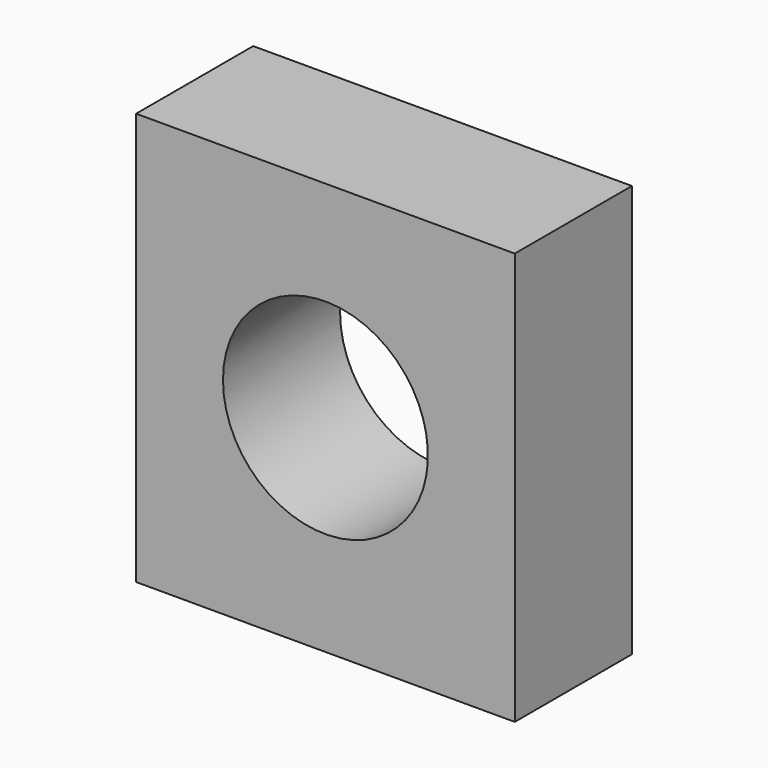
from build123d import *

# Parameters (mm, degrees)
F0_W     = 65.701642
F0_H     = 71.541786
F1_DEPTH = 25.4
F3_D     = 35.56


with BuildPart() as f1:
    # F0 (on Front) → F1 (new body)
    with BuildSketch(Plane.XZ):
        Rectangle(F0_W, F0_H)
    extrude(amount=F1_DEPTH)

    # F3 (through all)
    with Locations(Plane.XZ.offset(25.4)):
        with Locations((0, 0)):
            Hole(F3_D / 2)


solid = f1.part
